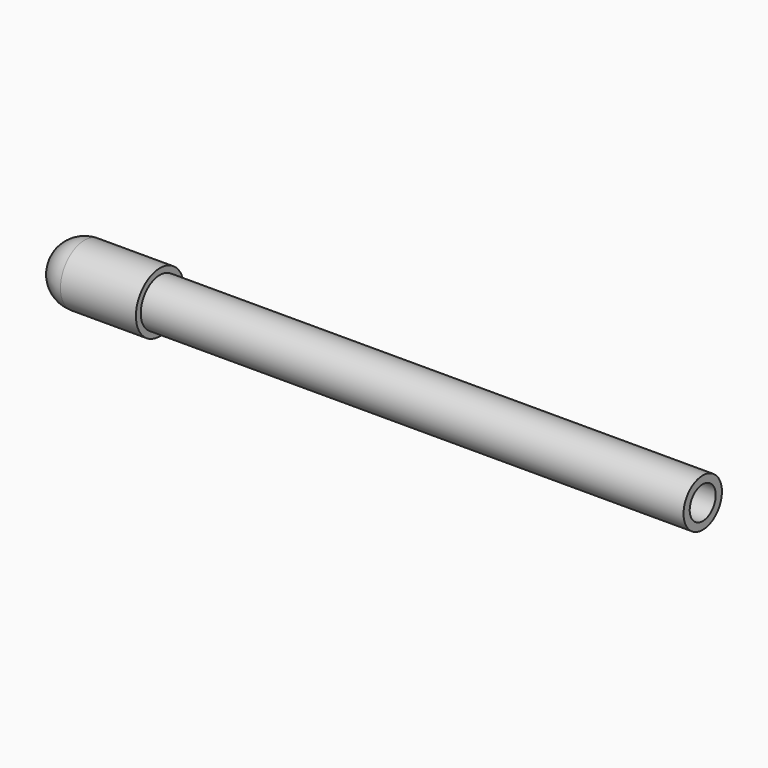
from build123d import *

# Parameters (mm, degrees)
F0_R     = 2.0250297423
F1_DEPTH = 25.4
F2_R     = 1.3726360735
F3_DEPTH = 25.4


with BuildPart() as f1:
    # F0 (on Right) → F1 (new body, symmetric)
    with BuildSketch(Plane.YZ):
        Circle(F0_R)
    extrude(amount=F1_DEPTH, both=True)

    # F2 (on Right) → F3 (cut, symmetric)
    with BuildSketch(Plane.YZ):
        Circle(F2_R)
    extrude(amount=F3_DEPTH, both=True, mode=Mode.SUBTRACT)


with BuildPart() as f5:
    # F4 (on Top) → F5 (revolve)
    with BuildSketch(Plane.XY):
        with BuildLine():
            Line((-20.4256717116, -2.5355029557), (-20.4256717116, 0))
            Line((-20.4256717116, 0), (-29.3303910349, 0))
            ThreePointArc((-29.3303910349, 0), (-28.5877594129, -1.7928713337), (-26.7948880792, -2.5355029557))
            Line((-26.7948880792, -2.5355029557), (-20.4256717116, -2.5355029557))
        make_face()
    revolve(axis=Axis((-14.6651955174, 0, 0), (-1, 0, 0)))


solid = Compound([f1.part, f5.part])
